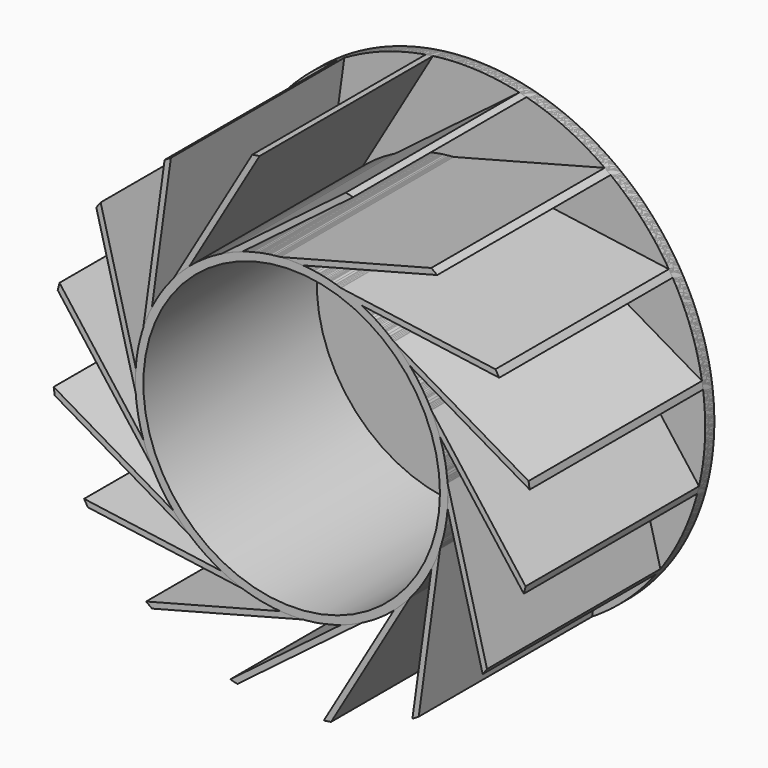
from build123d import *

# Parameters (mm, degrees)
F0_R      = 267.335
F1_DEPTH  = 12.7
F2_R      = 173.99
F3_DEPTH  = 241.3
F5_DEPTH  = 241.3
F7_COUNT  = 16
F9_DEPTH  = 254
F10_R     = 165.1
F11_DEPTH = 241.3


with BuildPart() as f1:
    # F0 (on Front) → F1 (new body)
    with BuildSketch(Plane.XZ):
        Circle(F0_R)
    extrude(amount=F1_DEPTH)

    # F2 (on face) → F3 (join)
    with BuildSketch(Plane.XZ.offset(12.7)):
        Circle(F2_R)
    extrude(amount=F3_DEPTH)

    # F4 (on face) → F5 (join)
    with BuildSketch(Plane.XZ.offset(12.7)):
        with BuildLine():
            Line((155.4588853582, 217.4868667028), (-12.5453111688, 173.5371293634))
            ThreePointArc((-12.5453111688, 173.5371293634), (0, 173.99), (12.5453111688, 173.5371293634))
            Line((12.5453111688, 173.5371293634), (162.0244501567, 212.6407293451))
            ThreePointArc((162.0244501567, 212.6407293451), (158.7601598142, 215.0888511308), (155.4588853582, 217.4868667028))
        make_face()
    extrude(amount=F5_DEPTH)


with BuildPart() as f7_1:
    # F7: instance of F1
    add(f1.part.rotate(Axis((0, -39.2995178699, 0), (0, -1, 0)), 1 * 360 / F7_COUNT))


with BuildPart() as f7_2:
    # F7: instance of F1
    add(f1.part.rotate(Axis((0, -39.2995178699, 0), (0, -1, 0)), 2 * 360 / F7_COUNT))


with BuildPart() as f7_3:
    # F7: instance of F1
    add(f1.part.rotate(Axis((0, -39.2995178699, 0), (0, -1, 0)), 3 * 360 / F7_COUNT))


with BuildPart() as f7_4:
    # F7: instance of F1
    add(f1.part.rotate(Axis((0, -39.2995178699, 0), (0, -1, 0)), 4 * 360 / F7_COUNT))


with BuildPart() as f7_5:
    # F7: instance of F1
    add(f1.part.rotate(Axis((0, -39.2995178699, 0), (0, -1, 0)), 5 * 360 / F7_COUNT))


with BuildPart() as f7_6:
    # F7: instance of F1
    add(f1.part.rotate(Axis((0, -39.2995178699, 0), (0, -1, 0)), 6 * 360 / F7_COUNT))


with BuildPart() as f7_7:
    # F7: instance of F1
    add(f1.part.rotate(Axis((0, -39.2995178699, 0), (0, -1, 0)), 7 * 360 / F7_COUNT))


with BuildPart() as f7_8:
    # F7: instance of F1
    add(f1.part.rotate(Axis((0, -39.2995178699, 0), (0, -1, 0)), 8 * 360 / F7_COUNT))


with BuildPart() as f7_9:
    # F7: instance of F1
    add(f1.part.rotate(Axis((0, -39.2995178699, 0), (0, -1, 0)), 9 * 360 / F7_COUNT))


with BuildPart() as f7_10:
    # F7: instance of F1
    add(f1.part.rotate(Axis((0, -39.2995178699, 0), (0, -1, 0)), 10 * 360 / F7_COUNT))


with BuildPart() as f7_11:
    # F7: instance of F1
    add(f1.part.rotate(Axis((0, -39.2995178699, 0), (0, -1, 0)), 11 * 360 / F7_COUNT))


with BuildPart() as f7_12:
    # F7: instance of F1
    add(f1.part.rotate(Axis((0, -39.2995178699, 0), (0, -1, 0)), 12 * 360 / F7_COUNT))


with BuildPart() as f7_13:
    # F7: instance of F1
    add(f1.part.rotate(Axis((0, -39.2995178699, 0), (0, -1, 0)), 13 * 360 / F7_COUNT))


with BuildPart() as f7_14:
    # F7: instance of F1
    add(f1.part.rotate(Axis((0, -39.2995178699, 0), (0, -1, 0)), 14 * 360 / F7_COUNT))


with BuildPart() as f7_15:
    # F7: instance of F1
    add(f1.part.rotate(Axis((0, -39.2995178699, 0), (0, -1, 0)), 15 * 360 / F7_COUNT))


with BuildPart() as f9_tool:
    # F8 (on face) → F9 (new body, through all)
    with BuildSketch(Plane.XZ.offset(254)):
        with BuildLine():
            ThreePointArc((-4.7625, 20.0804631421), (-12.7988341754, -16.1893869557), (20.6375, 0))
            ThreePointArc((20.6375, 0), (16.1893869557, 12.7988341754), (4.7625, 20.0804631421))
            Line((4.7625, 20.0804631421), (4.7625, 15.3289))
            Line((4.7625, 15.3289), (-4.7625, 15.3289))
            Line((-4.7625, 15.3289), (-4.7625, 20.0804631421))
        make_face()
        with BuildLine():
            Line((4.7625, 15.3289), (4.7625, 20.0804631421))
            ThreePointArc((4.7625, 20.0804631421), (0, 20.6375), (-4.7625, 20.0804631421))
            Line((-4.7625, 20.0804631421), (-4.7625, 15.3289))
            Line((-4.7625, 15.3289), (4.7625, 15.3289))
        make_face()
        with BuildLine():
            ThreePointArc((-4.7625, 20.0804631421), (0, 20.6375), (4.7625, 20.0804631421))
            Line((4.7625, 20.0804631421), (4.7625, 24.8539))
            Line((4.7625, 24.8539), (-4.7625, 24.8539))
            Line((-4.7625, 24.8539), (-4.7625, 20.0804631421))
        make_face()
    extrude(amount=-F9_DEPTH)


with BuildPart() as f1_1:
    add(f1.part)

    # F9: cut by f9_tool
    add(f9_tool.part, mode=Mode.SUBTRACT)


with BuildPart() as f7_1_1:
    add(f7_1.part)

    # F9: cut by f9_tool
    add(f9_tool.part, mode=Mode.SUBTRACT)


with BuildPart() as f7_2_1:
    add(f7_2.part)

    # F9: cut by f9_tool
    add(f9_tool.part, mode=Mode.SUBTRACT)


with BuildPart() as f7_3_1:
    add(f7_3.part)

    # F9: cut by f9_tool
    add(f9_tool.part, mode=Mode.SUBTRACT)


with BuildPart() as f7_4_1:
    add(f7_4.part)

    # F9: cut by f9_tool
    add(f9_tool.part, mode=Mode.SUBTRACT)


with BuildPart() as f7_5_1:
    add(f7_5.part)

    # F9: cut by f9_tool
    add(f9_tool.part, mode=Mode.SUBTRACT)


with BuildPart() as f7_6_1:
    add(f7_6.part)

    # F9: cut by f9_tool
    add(f9_tool.part, mode=Mode.SUBTRACT)


with BuildPart() as f7_7_1:
    add(f7_7.part)

    # F9: cut by f9_tool
    add(f9_tool.part, mode=Mode.SUBTRACT)


with BuildPart() as f7_8_1:
    add(f7_8.part)

    # F9: cut by f9_tool
    add(f9_tool.part, mode=Mode.SUBTRACT)


with BuildPart() as f7_9_1:
    add(f7_9.part)

    # F9: cut by f9_tool
    add(f9_tool.part, mode=Mode.SUBTRACT)


with BuildPart() as f7_10_1:
    add(f7_10.part)

    # F9: cut by f9_tool
    add(f9_tool.part, mode=Mode.SUBTRACT)


with BuildPart() as f7_11_1:
    add(f7_11.part)

    # F9: cut by f9_tool
    add(f9_tool.part, mode=Mode.SUBTRACT)


with BuildPart() as f7_12_1:
    add(f7_12.part)

    # F9: cut by f9_tool
    add(f9_tool.part, mode=Mode.SUBTRACT)


with BuildPart() as f7_13_1:
    add(f7_13.part)

    # F9: cut by f9_tool
    add(f9_tool.part, mode=Mode.SUBTRACT)


with BuildPart() as f7_14_1:
    add(f7_14.part)

    # F9: cut by f9_tool
    add(f9_tool.part, mode=Mode.SUBTRACT)


with BuildPart() as f7_15_1:
    add(f7_15.part)

    # F9: cut by f9_tool
    add(f9_tool.part, mode=Mode.SUBTRACT)


with BuildPart() as f11_tool:
    # F10 (on face) → F11 (new body)
    with BuildSketch(Plane.XZ.offset(254)):
        Circle(F10_R)
    extrude(amount=-F11_DEPTH)


with BuildPart() as f1_2:
    add(f1_1.part)

    # F11: cut by f11_tool
    add(f11_tool.part, mode=Mode.SUBTRACT)


with BuildPart() as f7_1_2:
    add(f7_1_1.part)

    # F11: cut by f11_tool
    add(f11_tool.part, mode=Mode.SUBTRACT)


with BuildPart() as f7_2_2:
    add(f7_2_1.part)

    # F11: cut by f11_tool
    add(f11_tool.part, mode=Mode.SUBTRACT)


with BuildPart() as f7_3_2:
    add(f7_3_1.part)

    # F11: cut by f11_tool
    add(f11_tool.part, mode=Mode.SUBTRACT)


with BuildPart() as f7_4_2:
    add(f7_4_1.part)

    # F11: cut by f11_tool
    add(f11_tool.part, mode=Mode.SUBTRACT)


with BuildPart() as f7_5_2:
    add(f7_5_1.part)

    # F11: cut by f11_tool
    add(f11_tool.part, mode=Mode.SUBTRACT)


with BuildPart() as f7_6_2:
    add(f7_6_1.part)

    # F11: cut by f11_tool
    add(f11_tool.part, mode=Mode.SUBTRACT)


with BuildPart() as f7_7_2:
    add(f7_7_1.part)

    # F11: cut by f11_tool
    add(f11_tool.part, mode=Mode.SUBTRACT)


with BuildPart() as f7_8_2:
    add(f7_8_1.part)

    # F11: cut by f11_tool
    add(f11_tool.part, mode=Mode.SUBTRACT)


with BuildPart() as f7_9_2:
    add(f7_9_1.part)

    # F11: cut by f11_tool
    add(f11_tool.part, mode=Mode.SUBTRACT)


with BuildPart() as f7_10_2:
    add(f7_10_1.part)

    # F11: cut by f11_tool
    add(f11_tool.part, mode=Mode.SUBTRACT)


with BuildPart() as f7_11_2:
    add(f7_11_1.part)

    # F11: cut by f11_tool
    add(f11_tool.part, mode=Mode.SUBTRACT)


with BuildPart() as f7_12_2:
    add(f7_12_1.part)

    # F11: cut by f11_tool
    add(f11_tool.part, mode=Mode.SUBTRACT)


with BuildPart() as f7_13_2:
    add(f7_13_1.part)

    # F11: cut by f11_tool
    add(f11_tool.part, mode=Mode.SUBTRACT)


with BuildPart() as f7_14_2:
    add(f7_14_1.part)

    # F11: cut by f11_tool
    add(f11_tool.part, mode=Mode.SUBTRACT)


with BuildPart() as f7_15_2:
    add(f7_15_1.part)

    # F11: cut by f11_tool
    add(f11_tool.part, mode=Mode.SUBTRACT)


solid = Compound([f1_2.part, f7_1_2.part, f7_2_2.part, f7_3_2.part, f7_4_2.part, f7_5_2.part, f7_6_2.part, f7_7_2.part, f7_8_2.part, f7_9_2.part, f7_10_2.part, f7_11_2.part, f7_12_2.part, f7_13_2.part, f7_14_2.part, f7_15_2.part])
